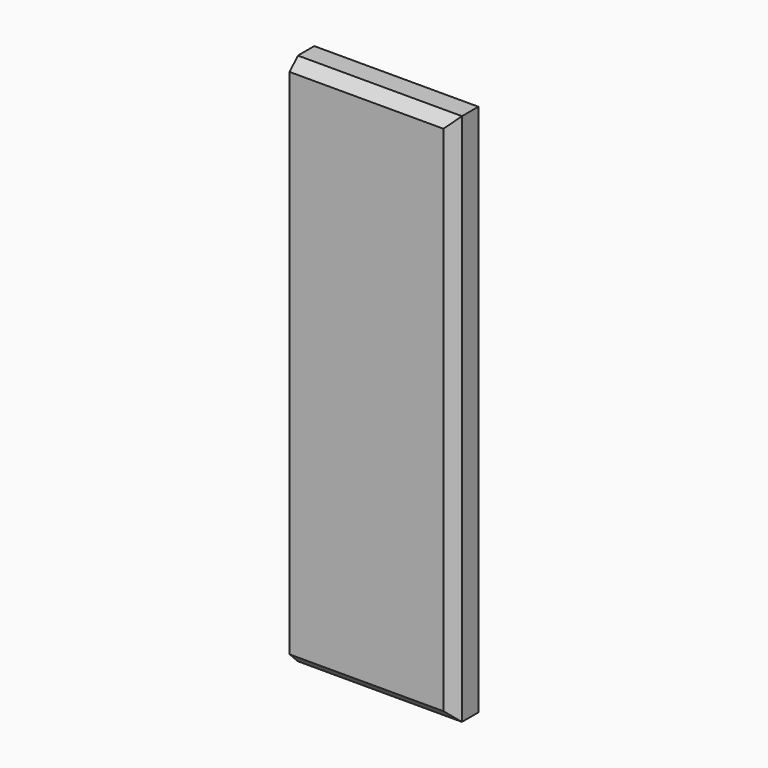
from build123d import *

# Parameters (mm, degrees)
F0_W     = 101.6
F0_H     = 330.2
F1_DEPTH = 19.05
F2_SIZE  = 6.35


with BuildPart() as f1:
    # F0 (on Front) → F1 (new body)
    with BuildSketch(Plane.XZ):
        with Locations((-14.586675, -4.056785)):
            Rectangle(F0_W, F0_H)
    extrude(amount=F1_DEPTH)

    # F2
    f2_edges = [f1.edges().sort_by_distance(p)[0] for p in [
        (-14.586675, -19.05, -169.156785),
        (36.213325, -19.05, -4.056785),
        (-14.586675, -19.05, 161.043215),
    ]]
    chamfer(f2_edges, length=F2_SIZE)


solid = f1.part
